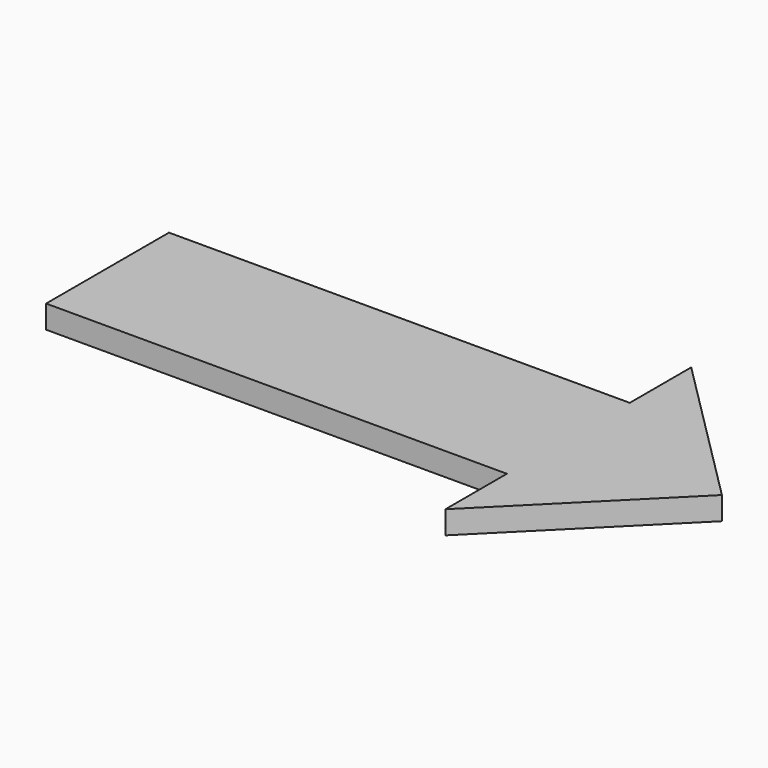
from build123d import *

# Parameters (mm, degrees)
PAD_DEPTH = 3


with BuildPart() as part:
    # Sketch → Pad (new body)
    with BuildSketch(Plane.XY):
        Polygon((0, 10), (60, 10), (60, 20), (80, 0), (60, -20), (60, -10), (0, -10), (0, 0), align=None)
    extrude(amount=PAD_DEPTH)


solid = part.part
